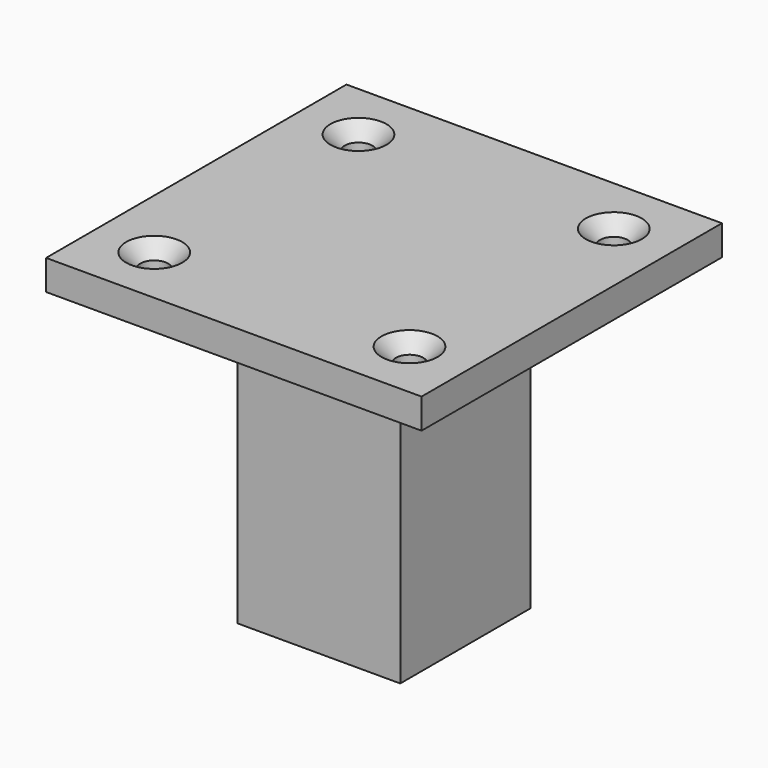
from build123d import *

# Parameters (mm, degrees)
F0_W           = 150
F0_H           = 150
F1_DEPTH       = 6
F1_DEPTH_BACK  = 6
F3_D           = 11
F3_CSINK_D     = 22.4
F3_CSINK_ANGLE = 90
F4_W           = 65
F4_H           = 65
F5_DEPTH       = 120
F6_T           = -7.5


with BuildPart() as f1:
    # F0 (on Top) → F1 (new body, two sides)
    with BuildSketch(Plane.XY) as f1_sk:
        Rectangle(F0_W, F0_H)
    extrude(amount=F1_DEPTH)
    extrude(f1_sk.sketch, amount=-F1_DEPTH_BACK)

    # F3 (through all)
    with Locations(Plane.XY.offset(6)):
        with Locations((-51, 51), (51, 51), (51, -51), (-51, -51)):
            CounterSinkHole(F3_D / 2, F3_CSINK_D / 2, counter_sink_angle=F3_CSINK_ANGLE)

    # F4 (on face) → F5 (join)
    with BuildSketch(Plane(origin=(0, 0, -6), x_dir=(1, 0, 0), z_dir=(0, 0, -1))):
        Rectangle(F4_W, F4_H)
    extrude(amount=F5_DEPTH)

    # F6
    f6_openings = [f1.faces().sort_by_distance(p)[0] for p in [
        (0, 0, -126),
    ]]
    offset(amount=F6_T, openings=f6_openings, kind=Kind.INTERSECTION)


solid = f1.part
